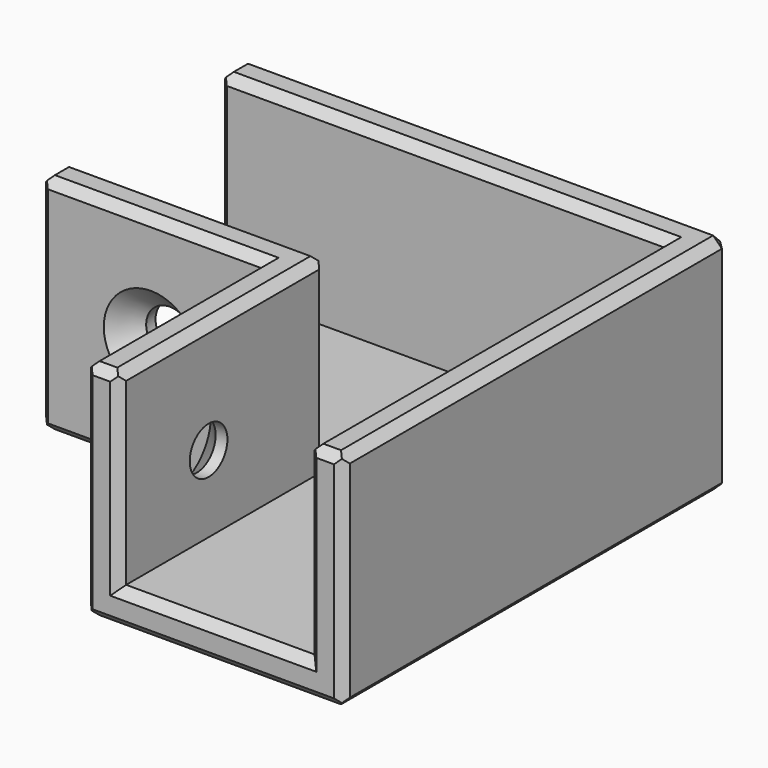
from build123d import *

# Parameters (mm, degrees)
F0_W           = 22
F0_H           = 19
F1_DEPTH       = 3
F2_W           = 3
F2_H           = 38
F2_W_2         = 19
F2_H_2         = 3
F3_DEPTH       = 16
F5_D           = 4
F5_DEPTH       = 12
F5_CSINK_D     = 8
F5_CSINK_ANGLE = 90
F5_TIP         = 1.2017212381
F7_D           = 4
F7_DEPTH       = 12
F7_CSINK_D     = 8
F7_CSINK_ANGLE = 90
F7_TIP         = 1.2017212381
F8_SIZE        = 0.75
F9_SIZE        = 0.75
F10_SIZE       = 0.75
F11_SIZE       = 0.75
F12_SIZE       = 0.75


with BuildPart() as f1:
    # F0 (on Top) → F1 (new body)
    with BuildSketch(Plane.XY):
        Polygon((0, 22), (0, 0), (19, 0), (41, 0), (41, 22), align=None)
        with Locations((30, -9.5)):
            Rectangle(F0_W, F0_H)
    extrude(amount=F1_DEPTH)

    # F2 (on face) → F3 (join)
    with BuildSketch(Plane.XY.offset(3)):
        Polygon((41, 22), (0, 22), (0, 19), (38, 19), (41, 19), align=None)
        with Locations((39.5, 0)):
            Rectangle(F2_W, F2_H)
        Polygon((22, 3), (19, 3), (19, 0), (19, -19), (22, -19), align=None)
        with Locations((9.5, 1.5)):
            Rectangle(F2_W_2, F2_H_2)
    extrude(amount=F3_DEPTH)

    # F5
    with Locations(Plane.XZ):
        with Locations((9.5, 9.5)):
            CounterSinkHole(F5_D / 2, F5_CSINK_D / 2, depth=F5_DEPTH, counter_sink_angle=F5_CSINK_ANGLE)
            with Locations((0, 0, -(F5_DEPTH + F5_TIP / 2))):  # 118° drill point
                Cone(0, F5_D / 2, F5_TIP, mode=Mode.SUBTRACT)

    # F7
    with Locations(Plane(origin=(19, 0, 0), x_dir=(0, -1, 0), z_dir=(-1, 0, 0))):
        with Locations((9.5, 9.5)):
            CounterSinkHole(F7_D / 2, F7_CSINK_D / 2, depth=F7_DEPTH, counter_sink_angle=F7_CSINK_ANGLE)
            with Locations((0, 0, -(F7_DEPTH + F7_TIP / 2))):  # 118° drill point
                Cone(0, F7_D / 2, F7_TIP, mode=Mode.SUBTRACT)

    # F8
    f8_edges = [f1.edges().sort_by_distance(p)[0] for p in [
        (19, -19, 9.5),
        (20.5, -19, 19),
        (22, -19, 11),
        (30, -19, 3),
        (38, -19, 11),
        (39.5, -19, 19),
        (41, -19, 9.5),
        (30, -19, 0),
    ]]
    chamfer(f8_edges, length=F8_SIZE)

    # F9
    f9_edges = [f1.edges().sort_by_distance(p)[0] for p in [
        (0, 22, 9.5),
        (0, 20.5, 19),
        (0, 19, 11),
        (0, 11, 3),
        (0, 3, 11),
        (0, 1.5, 19),
        (0, 0, 9.5),
        (0, 11, 0),
    ]]
    chamfer(f9_edges, length=F9_SIZE)

    # F10
    f10_edges = [f1.edges().sort_by_distance(p)[0] for p in [
        (19, -9.125, 19),
        (9.875, 0, 19),
        (11.375, 3, 19),
        (22, -7.625, 19),
        (38, 0.375, 19),
        (19.375, 19, 19),
        (20.875, 22, 19),
        (41, 1.875, 19),
        (41, 22, 9.5),
    ]]
    chamfer(f10_edges, length=F10_SIZE)

    # F11
    f11_edges = [f1.edges().sort_by_distance(p)[0] for p in [
        (22, 3, 10.625),
    ]]
    chamfer(f11_edges, length=F11_SIZE)

    # F12 (call 1 of 3: OpenCascade refuses the feature's edges together)
    f12_edges = [f1.edges().sort_by_distance(p)[0] for p in [
        (19, -9.125, 0),
        (9.875, 0, 0),
    ]]
    chamfer(f12_edges, length=F12_SIZE)

    # F12#2 (call 2 of 3)
    f12_2_edges = [f1.edges().sort_by_distance(p)[0] for p in [
        (41, 1.5, 0),
    ]]
    chamfer(f12_2_edges, length=F12_SIZE)

    # F12#3 (call 3 of 3)
    f12_3_edges = [f1.edges().sort_by_distance(p)[0] for p in [
        (20.5, 22, 0),
    ]]
    chamfer(f12_3_edges, length=F12_SIZE)


solid = f1.part
